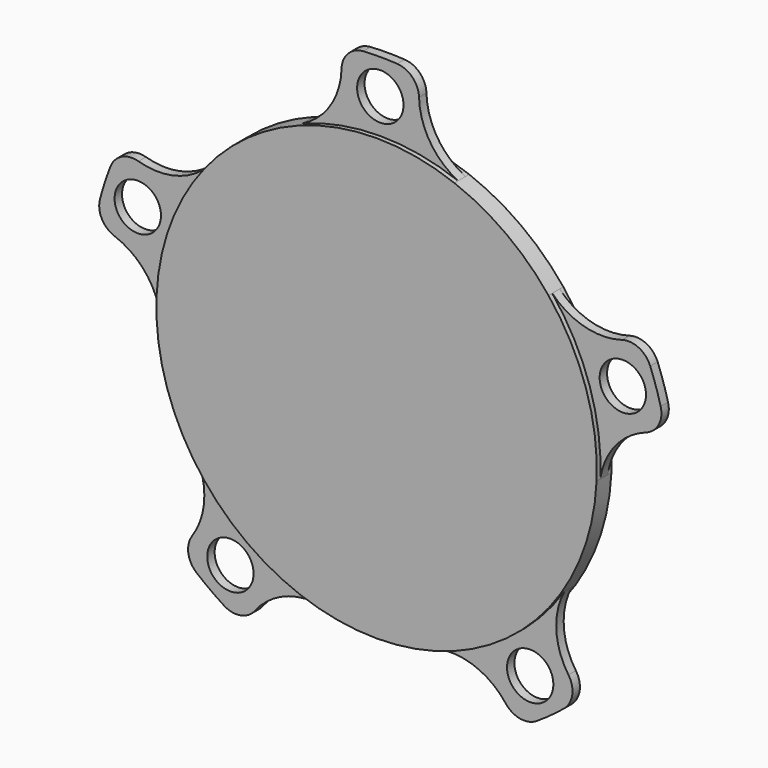
from build123d import *

# Parameters (mm, degrees)
F1_DEPTH = 2
F0_R     = 5
F2_DEPTH = 1


with BuildPart() as f1:
    # F0 (on Front) → F1 (new body, symmetric)
    with BuildSketch(Plane.XZ):
        with BuildLine():
            ThreePointArc((-16.772187, 44.440339), (-27.919799, 38.428307), (-37.082383, 29.684118))
            ThreePointArc((-37.082383, 29.684118), (-45.175185, 14.678307), (-47.448165, -2.218477))
            ThreePointArc((-47.448165, -2.218477), (-45.175185, -14.678307), (-39.69036, -26.094546))
            ThreePointArc((-39.69036, -26.094546), (-27.919799, -38.428307), (-12.552392, -45.811434))
            ThreePointArc((-12.552392, -45.811434), (0, -47.5), (12.552392, -45.811434))
            ThreePointArc((12.552392, -45.811434), (27.919799, -38.428307), (39.69036, -26.094546))
            ThreePointArc((39.69036, -26.094546), (45.175185, -14.678307), (47.448165, -2.218477))
            ThreePointArc((47.448165, -2.218477), (45.175185, 14.678307), (37.082383, 29.684118))
            ThreePointArc((37.082383, 29.684118), (27.919799, 38.428307), (16.772187, 44.440339))
            ThreePointArc((16.772187, 44.440339), (0, 47.5), (-16.772187, 44.440339))
        make_face()
    extrude(amount=F1_DEPTH, both=True)

    # F0 (on Front) → F2 (join, symmetric)
    with BuildSketch(Plane.XZ):
        with BuildLine():
            ThreePointArc((-52.142733, 25.729399), (-55.756082, 25.421938), (-58.211244, 22.753044))
            ThreePointArc((-58.211244, 22.753044), (-59.441032, 19.313562), (-60.46779, 15.808112))
            ThreePointArc((-60.46779, 15.808112), (-60.050258, 12.205823), (-57.307718, 9.833209))
            ThreePointArc((-57.307718, 9.833209), (-50.70048, 5.179707), (-47.448165, -2.218477))
            ThreePointArc((-47.448165, -2.218477), (-45.175185, 14.678307), (-37.082383, 29.684118))
            ThreePointArc((-37.082383, 29.684118), (-44.062105, 25.610523), (-52.142733, 25.729399))
        make_face()
        with Locations((-52.308108, 16.995935)):
            Circle(F0_R, mode=Mode.SUBTRACT)
        with BuildLine():
            ThreePointArc((-8.357121, 57.541508), (-10.741116, 49.819639), (-16.772187, 44.440339))
            ThreePointArc((-16.772187, 44.440339), (0, 47.5), (16.772187, 44.440339))
            ThreePointArc((16.772187, 44.440339), (10.741116, 49.819639), (8.357121, 57.541508))
            ThreePointArc((8.357121, 57.541508), (6.948123, 60.882996), (3.651167, 62.393261))
            ThreePointArc((3.651167, 62.393261), (0, 62.5), (-3.651167, 62.393261))
            ThreePointArc((-3.651167, 62.393261), (-6.948123, 60.882996), (-8.357121, 57.541508))
        make_face()
        with Locations((0, 55)):
            Circle(F0_R, mode=Mode.SUBTRACT)
        with BuildLine():
            ThreePointArc((52.142733, 25.729399), (44.062105, 25.610523), (37.082383, 29.684118))
            ThreePointArc((37.082383, 29.684118), (45.175185, 14.678307), (47.448165, -2.218477))
            ThreePointArc((47.448165, -2.218477), (50.70048, 5.179707), (57.307718, 9.833209))
            ThreePointArc((57.307718, 9.833209), (60.050258, 12.205823), (60.46779, 15.808112))
            ThreePointArc((60.46779, 15.808112), (59.441032, 19.313562), (58.211244, 22.753044))
            ThreePointArc((58.211244, 22.753044), (55.756082, 25.421938), (52.142733, 25.729399))
        make_face()
        with Locations((52.308108, 16.995935)):
            Circle(F0_R, mode=Mode.SUBTRACT)
        with BuildLine():
            ThreePointArc((39.69036, -26.094546), (27.919799, -38.428307), (12.552392, -45.811434))
            ThreePointArc((12.552392, -45.811434), (20.593504, -46.618404), (27.060996, -51.46425))
            ThreePointArc((27.060996, -51.46425), (30.164977, -53.339382), (33.719982, -52.62331))
            ThreePointArc((33.719982, -52.62331), (36.736578, -50.563562), (39.627695, -48.331106))
            ThreePointArc((39.627695, -48.331106), (41.407277, -45.171374), (40.583103, -41.639865))
            ThreePointArc((40.583103, -41.639865), (37.972994, -33.991465), (39.69036, -26.094546))
        make_face()
        with Locations((32.328189, -44.495935)):
            Circle(F0_R, mode=Mode.SUBTRACT)
        with BuildLine():
            ThreePointArc((-12.552392, -45.811434), (-27.919799, -38.428307), (-39.69036, -26.094546))
            ThreePointArc((-39.69036, -26.094546), (-37.972994, -33.991465), (-40.583103, -41.639865))
            ThreePointArc((-40.583103, -41.639865), (-41.407277, -45.171374), (-39.627695, -48.331106))
            ThreePointArc((-39.627695, -48.331106), (-36.736578, -50.563562), (-33.719982, -52.62331))
            ThreePointArc((-33.719982, -52.62331), (-30.164977, -53.339382), (-27.060996, -51.46425))
            ThreePointArc((-27.060996, -51.46425), (-20.593504, -46.618404), (-12.552392, -45.811434))
        make_face()
        with Locations((-32.328189, -44.495935)):
            Circle(F0_R, mode=Mode.SUBTRACT)
    extrude(amount=F2_DEPTH, both=True)


solid = f1.part
